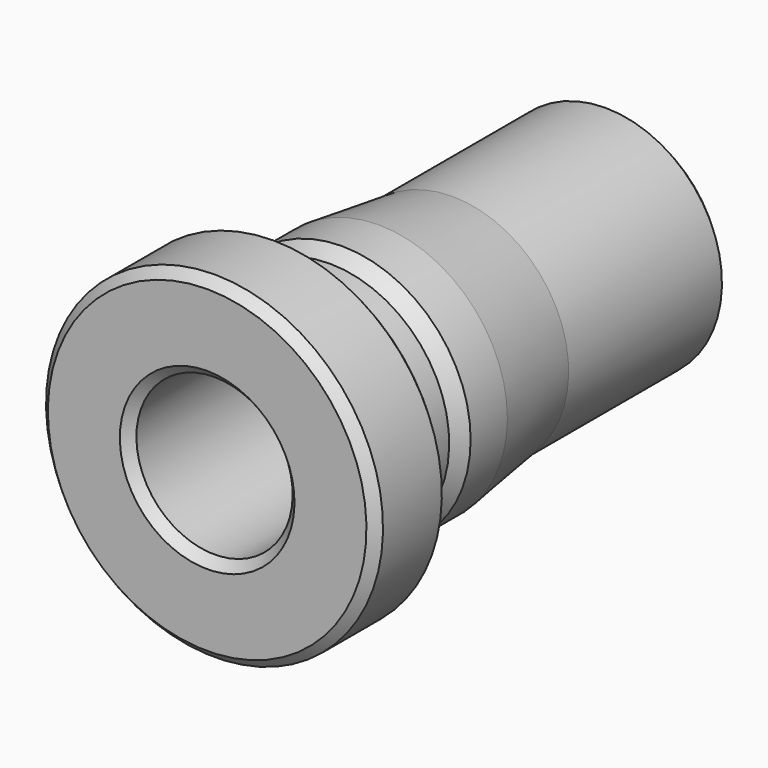
from build123d import *

# Parameters (mm, degrees)
F2_R    = 0.4
F3_SIZE = 0.3


with BuildPart() as f1:
    # F0 (on Right) → F1 (revolve)
    with BuildSketch(Plane.YZ):
        Polygon((0, 5.5), (0, 2.55), (16.554633, 2.55), (16.554633, 3.8), (10, 3.8), (7, 4.2), (5.5, 4.2), (5, 3.9), (3, 3.9), (3, 5.5), align=None)
    revolve(axis=Axis((0, 9.707107, 0), (0, 1, 0)))

    # F2
    f2_edges = [f1.edges().sort_by_distance(p)[0] for p in [
        (0, 3, -3.9),
    ]]
    fillet(f2_edges, radius=F2_R)

    # F3
    f3_edges = [f1.edges().sort_by_distance(p)[0] for p in [
        (0, 3, -5.5),
        (0, 0, -5.5),
        (0, 16.554633, -3.8),
        (0, 0, -2.55),
    ]]
    chamfer(f3_edges, length=F3_SIZE)


solid = f1.part
